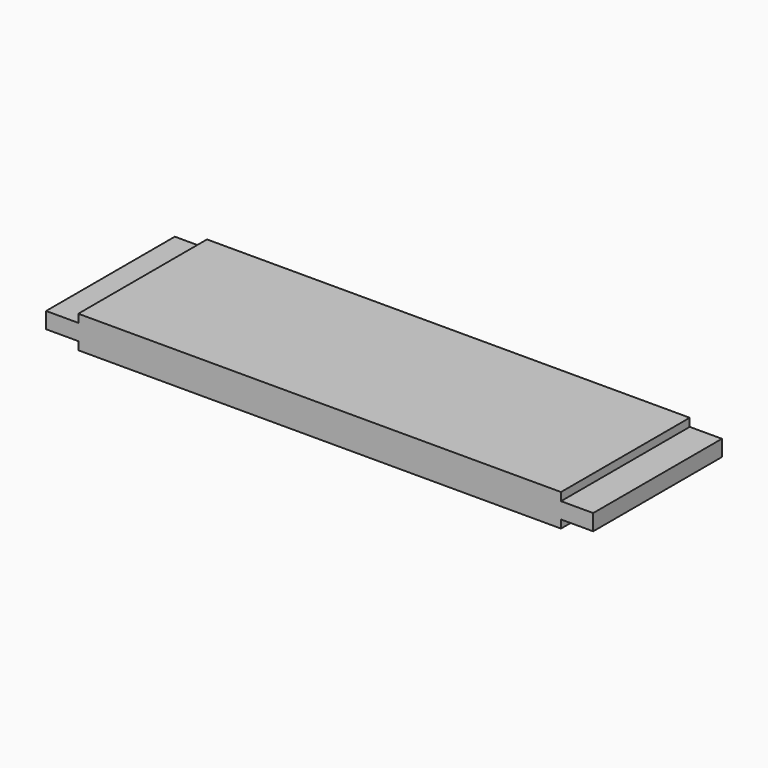
from build123d import *

# Parameters (mm, degrees)
F0_W     = 15
F0_H     = 1
F1_DEPTH = 5
F2_W     = 5
F2_H     = 0.5
F3_DEPTH = 1
F4_W     = 5
F4_H     = 0.5
F5_DEPTH = 1


with BuildPart() as f1:
    # F0 (on Front) → F1 (new body)
    with BuildSketch(Plane.XZ):
        with Locations((-10.18877, -5.196384)):
            Rectangle(F0_W, F0_H)
    extrude(amount=F1_DEPTH)

    # F2 (on face) → F3 (join)
    with BuildSketch(Plane(origin=(-17.68877, 0, 0), x_dir=(0, -1, 0), z_dir=(-1, 0, 0))):
        with Locations((2.5, -5.196384)):
            Rectangle(F2_W, F2_H)
    extrude(amount=F3_DEPTH)

    # F4 (on face) → F5 (join)
    with BuildSketch(Plane.YZ.offset(-2.68877)):
        with Locations((-2.5, -5.196384)):
            Rectangle(F4_W, F4_H)
    extrude(amount=F5_DEPTH)


solid = f1.part
